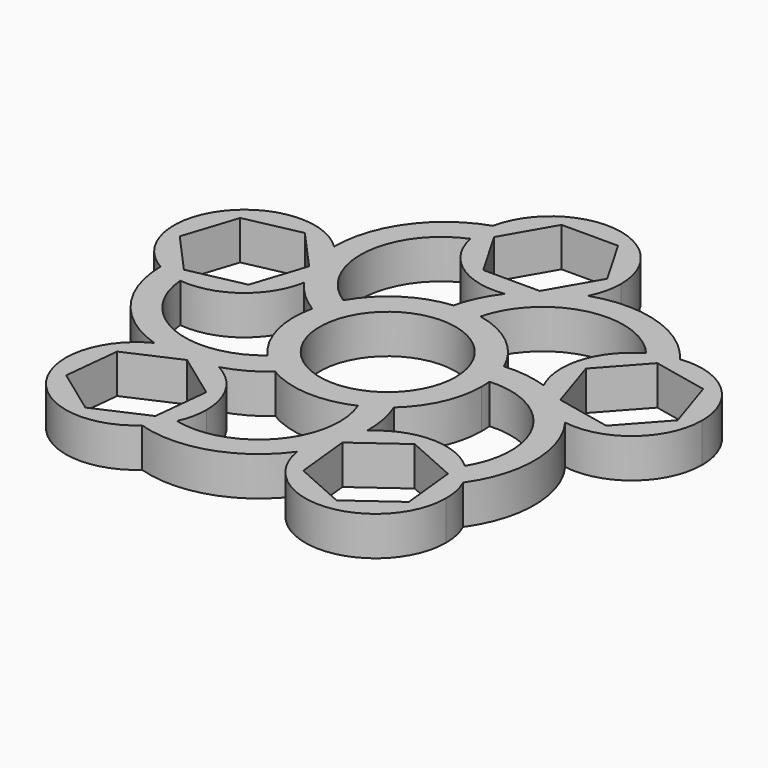
from build123d import *

# Parameters (mm, degrees)
F0_R     = 11.0236
F1_DEPTH = 6.35


with BuildPart() as f1:
    # F0 (on Top) → F1 (new body)
    with BuildSketch(Plane.XY):
        with BuildLine():
            ThreePointArc((-37.058964, 0.270715), (-34.958103, -0.659612), (-32.713622, -1.150971))
            ThreePointArc((-32.713622, -1.150971), (-24.555801, 1.052314), (-20.140829, 8.257349))
            ThreePointArc((-20.140829, 8.257349), (-22.501454, 13.038914), (-23.340718, 18.304989))
            ThreePointArc((-23.340718, 18.304989), (-40.501055, 17.123743), (-37.058964, 0.270715))
        make_face()
        Polygon((-40.369035, 8.29814), (-37.53676, 17.014987), (-28.571611, 18.920588), (-22.438737, 12.109342), (-25.271013, 3.392495), (-34.236162, 1.486894), align=None, mode=Mode.SUBTRACT)
        with BuildLine():
            ThreePointArc((-14.881645, 3.285458), (-14.220455, 5.480534), (-13.237485, 7.551595))
            ThreePointArc((-13.237485, 7.551595), (-19.286416, 19.773486), (-11.203704, 30.756834))
            ThreePointArc((-11.203704, 30.756834), (-11.429976, 33.0433), (-11.194384, 35.328824))
            ThreePointArc((-11.194384, 35.328824), (-20.029351, 28.787423), (-23.340718, 18.304989))
            ThreePointArc((-23.340718, 18.304989), (-22.501454, 13.038914), (-20.140829, 8.257349))
            ThreePointArc((-20.140829, 8.257349), (-17.766451, 5.501443), (-14.881645, 3.285458))
        make_face()
        with BuildLine():
            ThreePointArc((-14.077064, -16.603405), (-10.722318, -15.19686), (-7.723338, -13.138023))
            ThreePointArc((-7.723338, -13.138023), (-9.60666, -11.830879), (-11.272602, -10.256025))
            ThreePointArc((-11.272602, -10.256025), (-24.765533, -12.232129), (-32.713622, -1.150971))
            ThreePointArc((-32.713622, -1.150971), (-34.958103, -0.659612), (-37.058964, 0.270715))
            ThreePointArc((-37.058964, 0.270715), (-33.567876, -10.153242), (-24.621757, -16.541789))
            ThreePointArc((-24.621757, -16.541789), (-19.341881, -15.283936), (-14.077064, -16.603405))
        make_face()
        with BuildLine():
            ThreePointArc((-11.709315, -35.161513), (-10.175319, -33.450963), (-9.014427, -31.468173))
            ThreePointArc((-9.014427, -31.468173), (-8.24061, -29.146714), (-7.978669, -26.713741))
            ThreePointArc((-7.978669, -26.713741), (-9.621301, -20.810155), (-14.077064, -16.603405))
            ThreePointArc((-14.077064, -16.603405), (-19.341881, -15.283936), (-24.621757, -16.541789))
            ThreePointArc((-24.621757, -16.541789), (-28.801161, -33.227265), (-11.709315, -35.161513))
        make_face()
        Polygon((-20.366718, -35.828967), (-27.781711, -30.44166), (-26.823662, -21.326433), (-18.45062, -17.598515), (-11.035627, -22.985823), (-11.993676, -32.101049), align=None, mode=Mode.SUBTRACT)
        with BuildLine():
            ThreePointArc((11.440725, -18.518818), (11.139694, -14.893619), (10.10836, -11.405203))
            ThreePointArc((10.10836, -11.405203), (8.283213, -12.792419), (6.270634, -13.890167))
            ThreePointArc((6.270634, -13.890167), (3.980475, -27.333357), (-9.014427, -31.468173))
            ThreePointArc((-9.014427, -31.468173), (-10.175319, -33.450963), (-11.709315, -35.161513))
            ThreePointArc((-11.709315, -35.161513), (-0.716737, -35.062472), (8.123635, -28.528377))
            ThreePointArc((8.123635, -28.528377), (8.558917, -23.118218), (11.440725, -18.518818))
        make_face()
        with BuildLine():
            ThreePointArc((29.822209, -22.001726), (28.669409, -20.01422), (27.1424, -18.297429))
            ThreePointArc((27.1424, -18.297429), (19.247526, -15.284877), (11.440725, -18.518818))
            ThreePointArc((11.440725, -18.518818), (8.558917, -23.118218), (8.123635, -28.528377))
            ThreePointArc((8.123635, -28.528377), (20.318877, -38.107442), (30.838669, -26.713741))
            ThreePointArc((30.838669, -26.713741), (30.581665, -24.30354), (29.822209, -22.001726))
        make_face()
        Polygon((27.781711, -30.44166), (20.366718, -35.828967), (11.993676, -32.101049), (11.035627, -22.985823), (18.45062, -17.598515), (26.823662, -21.326433), align=None, mode=Mode.SUBTRACT)
        with BuildLine():
            ThreePointArc((13.970648, 6.08922), (14.725967, 3.924729), (15.148067, 1.67143))
            ThreePointArc((15.148067, 1.67143), (27.225602, -4.660815), (27.1424, -18.297429))
            ThreePointArc((27.1424, -18.297429), (28.669409, -20.01422), (29.822209, -22.001726))
            ThreePointArc((29.822209, -22.001726), (33.124908, -11.516557), (29.64244, -1.089717))
            ThreePointArc((29.64244, -1.089717), (24.631583, 0.996092), (21.147821, 5.158146))
            ThreePointArc((21.147821, 5.158146), (17.607028, 5.992097), (13.970648, 6.08922))
        make_face()
        with BuildLine():
            ThreePointArc((25.789352, 20.15974), (20.484595, 13.582198), (21.147821, 5.158146))
            ThreePointArc((21.147821, 5.158146), (24.631583, 0.996092), (29.64244, -1.089717))
            ThreePointArc((29.64244, -1.089717), (38.83731, 1.521051), (42.833886, 10.203741))
            ThreePointArc((42.833886, 10.203741), (39.026349, 18.720957), (30.140454, 21.563699))
            ThreePointArc((30.140454, 21.563699), (27.893989, 21.081495), (25.789352, 20.15974))
        make_face()
        Polygon((37.53676, 17.014987), (40.369035, 8.29814), (34.236162, 1.486894), (25.271013, 3.392495), (22.438737, 12.109342), (28.571611, 18.920588), align=None, mode=Mode.SUBTRACT)
        with BuildLine():
            ThreePointArc((-1.474025, 15.168548), (0.817935, 15.218035), (3.091386, 14.923168))
            ThreePointArc((3.091386, 14.923168), (12.845872, 24.452815), (25.789352, 20.15974))
            ThreePointArc((25.789352, 20.15974), (27.893989, 21.081495), (30.140454, 21.563699))
            ThreePointArc((30.140454, 21.563699), (21.189057, 27.944848), (10.196401, 27.854894))
            ThreePointArc((10.196401, 27.854894), (6.664238, 23.733836), (1.629347, 21.706728))
            ThreePointArc((1.629347, 21.706728), (-0.257952, 18.596938), (-1.474025, 15.168548))
        make_face()
        with BuildLine():
            ThreePointArc((-11.203704, 30.756834), (-6.58735, 23.679137), (1.629347, 21.706728))
            ThreePointArc((1.629347, 21.706728), (6.664238, 23.733836), (10.196401, 27.854894))
            ThreePointArc((10.196401, 27.854894), (11.117323, 30.364812), (11.43, 33.02))
            ThreePointArc((11.43, 33.02), (1.160408, 44.390943), (-11.194384, 35.328824))
            ThreePointArc((-11.194384, 35.328824), (-11.429976, 33.0433), (-11.203704, 30.756834))
        make_face()
        Polygon((9.165436, 33.02), (4.582718, 25.0825), (-4.582718, 25.0825), (-9.165436, 33.02), (-4.582718, 40.9575), (4.582718, 40.9575), align=None, mode=Mode.SUBTRACT)
        with BuildLine():
            ThreePointArc((10.10836, -11.405203), (13.898004, -6.253247), (15.24, 0))
            ThreePointArc((15.24, 0), (15.216999, 0.836978), (15.148067, 1.67143))
            ThreePointArc((15.148067, 1.67143), (14.725967, 3.924729), (13.970648, 6.08922))
            ThreePointArc((13.970648, 6.08922), (9.60666, 11.830879), (3.091386, 14.923168))
            ThreePointArc((3.091386, 14.923168), (0.817935, 15.218035), (-1.474025, 15.168548))
            ThreePointArc((-1.474025, 15.168548), (-8.283213, 12.792419), (-13.237485, 7.551595))
            ThreePointArc((-13.237485, 7.551595), (-14.220455, 5.480534), (-14.881645, 3.285458))
            ThreePointArc((-14.881645, 3.285458), (-14.725967, -3.924729), (-11.272602, -10.256025))
            ThreePointArc((-11.272602, -10.256025), (-9.60666, -11.830879), (-7.723338, -13.138023))
            ThreePointArc((-7.723338, -13.138023), (-0.817935, -15.218035), (6.270634, -13.890167))
            ThreePointArc((6.270634, -13.890167), (8.283213, -12.792419), (10.10836, -11.405203))
        make_face()
        Circle(F0_R, mode=Mode.SUBTRACT)
    extrude(amount=F1_DEPTH)


solid = f1.part
